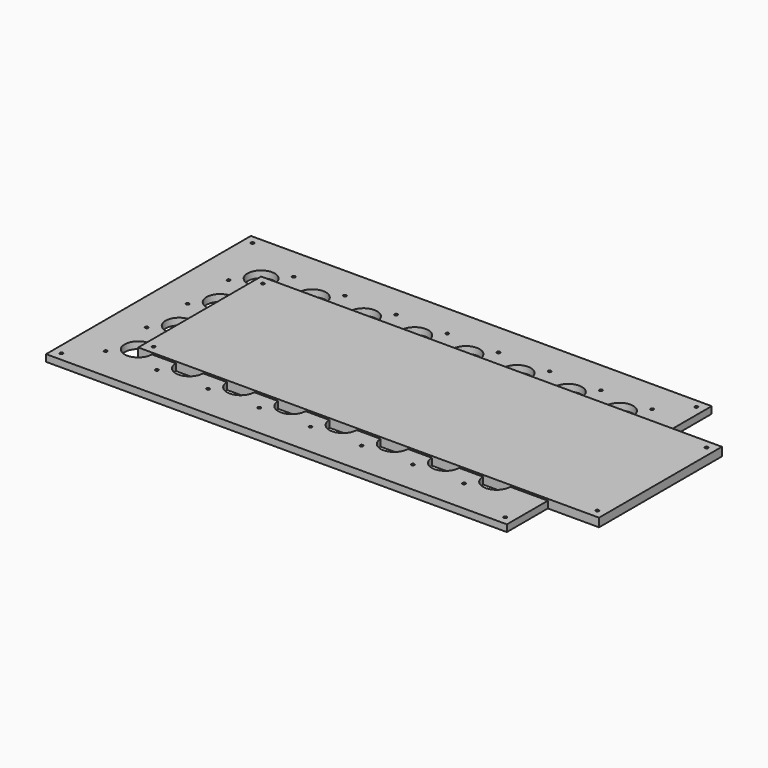
from build123d import *

# Parameters (mm, degrees)
BOX001_W                  = 540
BOX001_H                  = 40
BOX001_DEPTH              = 8
BOX003_W                  = 300
BOX003_H                  = 40
BOX003_DEPTH              = 8
CYLINDER004_R             = 1.8
CYLINDER004_DEPTH         = 10
ARRAY002_X_COUNT          = 2
ARRAY002_X_PITCH          = 280
ARRAY002_Y_COUNT          = 2
ARRAY002_Y_PITCH          = 160
CYLINDER003_R             = 1.8
CYLINDER003_DEPTH         = 10
ARRAY001_X_COUNT          = 3
ARRAY001_X_PITCH          = 55
ARRAY001_Y_COUNT          = 2
ARRAY001_Y_PITCH          = 60
BOX006_W                  = 100
BOX006_H                  = 50
BOX006_DEPTH              = 8
BOX005_W                  = 300
BOX005_H                  = 180
BOX005_DEPTH              = 8
CYLINDER005_R             = 1.8
CYLINDER005_DEPTH         = 10
ARRAY003_X_COUNT          = 2
ARRAY003_X_PITCH          = 280
ARRAY003_Y_COUNT          = 2
ARRAY003_Y_PITCH          = 160
BOX004_W                  = 300
BOX004_H                  = 180
BOX004_DEPTH              = 8
CYLINDER008_R             = 1.8
CYLINDER008_DEPTH         = 10
ARRAY006_X_COUNT          = 2
ARRAY006_X_PITCH          = 520
ARRAY006_Y_COUNT          = 2
ARRAY006_Y_PITCH          = 280
CYLINDER_R                = 16
CYLINDER_DEPTH            = 10
CYLINDER002_R             = 1.8
CYLINDER002_DEPTH         = 10
CYLINDER001_R             = 1.8
CYLINDER001_DEPTH         = 10
FUSION001_PLACEMENT_ANGLE = 45
ARRAY_X_COUNT             = 8
ARRAY_X_PITCH             = 60
ARRAY_Y_COUNT             = 4
ARRAY_Y_PITCH             = 60
BOX_W                     = 540
BOX_H                     = 300
BOX_DEPTH                 = 8
CYLINDER009_R             = 1.8
CYLINDER009_DEPTH         = 10
ARRAY007_X_COUNT          = 2
ARRAY007_X_PITCH          = 520
ARRAY007_Y_COUNT          = 2
ARRAY007_Y_PITCH          = 160
BOX007_W                  = 540
BOX007_H                  = 180
BOX007_DEPTH              = 10
BOX010_W                  = 92
BOX010_H                  = 39
BOX010_DEPTH              = 21
CYLINDER011_R             = 1.8
CYLINDER011_DEPTH         = 10
ARRAY008_X_COUNT          = 3
ARRAY008_X_PITCH          = 55
ARRAY008_Y_COUNT          = 2
ARRAY008_Y_PITCH          = 60
CYLINDER010_R             = 6
CYLINDER010_DEPTH         = 18
BOX009_W                  = 10
BOX009_H                  = 12
BOX009_DEPTH              = 18
BOX008_W                  = 12.5
BOX008_H                  = 11.5
BOX008_DEPTH              = 18
FACE001_W                 = 47.347988
FACE001_H                 = 97.690874
EXTRUDE001_DEPTH          = 8
FACE_W                    = 68.239742
FACE_H                    = 120.29238
EXTRUDE002_DEPTH          = 3


with BuildPart() as obj1:
    # Box001 → Box001 (new body)
    with BuildSketch(Plane.XY):
        with Locations((270, 20)):
            Rectangle(BOX001_W, BOX001_H)
    extrude(amount=BOX001_DEPTH)


with BuildPart() as obj2:
    # Box003 → Box003 (new body)
    with BuildSketch(Plane.XY):
        with Locations((150, 20)):
            Rectangle(BOX003_W, BOX003_H)
    extrude(amount=BOX003_DEPTH)


with BuildPart() as array002:
    # Cylinder004 → Cylinder004 (new body)
    with BuildSketch(Plane(origin=(10, 10, 0), x_dir=(1, 0, 0), z_dir=(0, 0, 1))):
        Circle(CYLINDER004_R)
    extrude(amount=CYLINDER004_DEPTH)

    # Array002 X: Array002 ×2


with BuildPart() as array002_1:
    add(array002.part)
    with Locations(*[(i * ARRAY002_X_PITCH, 0, 0) for i in range(1, ARRAY002_X_COUNT)]):
        add(array002.part)

    # Array002 Y: Array002 ×2


with BuildPart() as array002_2:
    add(array002_1.part)
    with Locations(*[(0, i * ARRAY002_Y_PITCH, 0) for i in range(1, ARRAY002_Y_COUNT)]):
        add(array002_1.part)


with BuildPart() as tornillos001:
    # Cylinder003 → Cylinder003 (new body)
    with BuildSketch(Plane(origin=(25, 12, 0), x_dir=(1, 0, 0), z_dir=(0, 0, 1))):
        Circle(CYLINDER003_R)
    extrude(amount=CYLINDER003_DEPTH)

    # Array001 X: tornillos001 ×3


with BuildPart() as tornillos001_1:
    add(tornillos001.part)
    with Locations(*[(i * ARRAY001_X_PITCH, 0, 0) for i in range(1, ARRAY001_X_COUNT)]):
        add(tornillos001.part)

    # Array001 Y: tornillos001 ×2


with BuildPart() as tornillos001_2:
    add(tornillos001_1.part)
    with Locations(*[(0, i * ARRAY001_Y_PITCH, 0) for i in range(1, ARRAY001_Y_COUNT)]):
        add(tornillos001_1.part)


with BuildPart() as agujero_jacks:
    # Box006 → Box006 (new body)
    with BuildSketch(Plane(origin=(30, 17, 0), x_dir=(1, 0, 0), z_dir=(0, 0, 1))):
        with Locations((50, 25)):
            Rectangle(BOX006_W, BOX006_H)
    extrude(amount=BOX006_DEPTH)


with BuildPart() as obj3:
    # Box005 → Box005 (new body)
    with BuildSketch(Plane.XY):
        with Locations((150, 90)):
            Rectangle(BOX005_W, BOX005_H)
    extrude(amount=BOX005_DEPTH)

    # Cut001: cut agujero-jacks
    add(agujero_jacks.part, mode=Mode.SUBTRACT)

    # Cut002: cut tornillos001
    add(tornillos001_2.part, mode=Mode.SUBTRACT)

    # Cut003: cut Array002
    add(array002_2.part, mode=Mode.SUBTRACT)


with BuildPart() as array003:
    # Cylinder005 → Cylinder005 (new body)
    with BuildSketch(Plane(origin=(10, 10, 0), x_dir=(1, 0, 0), z_dir=(0, 0, 1))):
        Circle(CYLINDER005_R)
    extrude(amount=CYLINDER005_DEPTH)

    # Array003 X: Array003 ×2


with BuildPart() as array003_1:
    add(array003.part)
    with Locations(*[(i * ARRAY003_X_PITCH, 0, 0) for i in range(1, ARRAY003_X_COUNT)]):
        add(array003.part)

    # Array003 Y: Array003 ×2


with BuildPart() as array003_2:
    add(array003_1.part)
    with Locations(*[(0, i * ARRAY003_Y_PITCH, 0) for i in range(1, ARRAY003_Y_COUNT)]):
        add(array003_1.part)


with BuildPart() as obj4:
    # Box004 → Box004 (new body)
    with BuildSketch(Plane.XY):
        with Locations((150, 90)):
            Rectangle(BOX004_W, BOX004_H)
    extrude(amount=BOX004_DEPTH)

    # Cut004: cut Array003
    add(array003_2.part, mode=Mode.SUBTRACT)


with BuildPart() as array006:
    # Cylinder008 → Cylinder008 (new body)
    with BuildSketch(Plane(origin=(-50, -50, 0), x_dir=(1, 0, 0), z_dir=(0, 0, 1))):
        Circle(CYLINDER008_R)
    extrude(amount=CYLINDER008_DEPTH)

    # Array006 X: Array006 ×2


with BuildPart() as array006_1:
    add(array006.part)
    with Locations(*[(i * ARRAY006_X_PITCH, 0, 0) for i in range(1, ARRAY006_X_COUNT)]):
        add(array006.part)

    # Array006 Y: Array006 ×2


with BuildPart() as array006_2:
    add(array006_1.part)
    with Locations(*[(0, i * ARRAY006_Y_PITCH, 0) for i in range(1, ARRAY006_Y_COUNT)]):
        add(array006_1.part)


with BuildPart() as cylinder:
    # Cylinder → Cylinder (new body)
    with BuildSketch(Plane.XY):
        Circle(CYLINDER_R)
    extrude(amount=CYLINDER_DEPTH)


with BuildPart() as cylinder002:
    # Cylinder002 → Cylinder002 (new body)
    with BuildSketch(Plane(origin=(30, 0, 0), x_dir=(1, 0, 0), z_dir=(0, 0, 1))):
        Circle(CYLINDER002_R)
    extrude(amount=CYLINDER002_DEPTH)


with BuildPart() as array:
    # Cylinder001 → Cylinder001 (new body)
    with BuildSketch(Plane(origin=(-30, 0, 0), x_dir=(1, 0, 0), z_dir=(0, 0, 1))):
        Circle(CYLINDER001_R)
    extrude(amount=CYLINDER001_DEPTH)

    # Fusion: union Cylinder002
    add(cylinder002.part)

    # Fusion001: union Cylinder
    add(cylinder.part)


with BuildPart() as array_1:
    # Fusion001 placement: moved
    add(array.part.rotate(Axis((0, 0, 0), (0, 0, 1)), FUSION001_PLACEMENT_ANGLE))

    # Array X: Array ×8


with BuildPart() as array_2:
    add(array_1.part)
    with Locations(*[(i * ARRAY_X_PITCH, 0, 0) for i in range(1, ARRAY_X_COUNT)]):
        add(array_1.part)

    # Array Y: Array ×4


with BuildPart() as array_3:
    add(array_2.part)
    with Locations(*[(0, i * ARRAY_Y_PITCH, 0) for i in range(1, ARRAY_Y_COUNT)]):
        add(array_2.part)


with BuildPart() as base:
    # Box → Box (new body)
    with BuildSketch(Plane(origin=(-60, -60, 0), x_dir=(1, 0, 0), z_dir=(0, 0, 1))):
        with Locations((270, 150)):
            Rectangle(BOX_W, BOX_H)
    extrude(amount=BOX_DEPTH)

    # Cut: cut Array
    add(array_3.part, mode=Mode.SUBTRACT)

    # Cut007: cut Array006
    add(array006_2.part, mode=Mode.SUBTRACT)


with BuildPart() as array007:
    # Cylinder009 → Cylinder009 (new body)
    with BuildSketch(Plane(origin=(10, 10, 0), x_dir=(1, 0, 0), z_dir=(0, 0, 1))):
        Circle(CYLINDER009_R)
    extrude(amount=CYLINDER009_DEPTH)

    # Array007 X: Array007 ×2


with BuildPart() as array007_1:
    add(array007.part)
    with Locations(*[(i * ARRAY007_X_PITCH, 0, 0) for i in range(1, ARRAY007_X_COUNT)]):
        add(array007.part)

    # Array007 Y: Array007 ×2


with BuildPart() as array007_2:
    add(array007_1.part)
    with Locations(*[(0, i * ARRAY007_Y_PITCH, 0) for i in range(1, ARRAY007_Y_COUNT)]):
        add(array007_1.part)


with BuildPart() as obj5:
    # Box007 → Box007 (new body)
    with BuildSketch(Plane.XY):
        with Locations((270, 90)):
            Rectangle(BOX007_W, BOX007_H)
    extrude(amount=BOX007_DEPTH)

    # Cut008: cut Array007
    add(array007_2.part, mode=Mode.SUBTRACT)


with BuildPart() as obj6:
    # Box010 → Box010 (new body)
    with BuildSketch(Plane(origin=(34, 22, -16), x_dir=(1, 0, 0), z_dir=(0, 0, 1))):
        with Locations((46, 19.5)):
            Rectangle(BOX010_W, BOX010_H)
    extrude(amount=BOX010_DEPTH)


with BuildPart() as tornillos002:
    # Cylinder011 → Cylinder011 (new body)
    with BuildSketch(Plane(origin=(25, 12, 0), x_dir=(1, 0, 0), z_dir=(0, 0, 1))):
        Circle(CYLINDER011_R)
    extrude(amount=CYLINDER011_DEPTH)

    # Array008 X: tornillos002 ×3


with BuildPart() as tornillos002_1:
    add(tornillos002.part)
    with Locations(*[(i * ARRAY008_X_PITCH, 0, 0) for i in range(1, ARRAY008_X_COUNT)]):
        add(tornillos002.part)

    # Array008 Y: tornillos002 ×2


with BuildPart() as tornillos002_2:
    add(tornillos002_1.part)
    with Locations(*[(0, i * ARRAY008_Y_PITCH, 0) for i in range(1, ARRAY008_Y_COUNT)]):
        add(tornillos002_1.part)


with BuildPart() as tornillos002_3:
    # Array008 placement: moved
    add(tornillos002_2.part.moved(Location((0, 0, -3))))


with BuildPart() as cylinder010:
    # Cylinder010 → Cylinder010 (new body)
    with BuildSketch(Plane(origin=(114, 41.5, -6), x_dir=(1, 0, 0), z_dir=(0, 0, 1))):
        Circle(CYLINDER010_R)
    extrude(amount=CYLINDER010_DEPTH)


with BuildPart() as jack:
    # Box009 → Box009 (new body)
    with BuildSketch(Plane(origin=(37.75, 0, 0), x_dir=(1, 0, 0), z_dir=(0, 0, 1))):
        with Locations((5, 6)):
            Rectangle(BOX009_W, BOX009_H)
    extrude(amount=BOX009_DEPTH)


with BuildPart() as obj7:
    # Box008 → Box008 (new body)
    with BuildSketch(Plane.XY):
        with Locations((6.25, 5.75)):
            Rectangle(BOX008_W, BOX008_H)
    extrude(amount=BOX008_DEPTH)

    # Fusion003: union JACK
    add(jack.part)


with BuildPart() as obj7_1:
    # Fusion003 placement: moved
    add(obj7.part.moved(Location((45, 36, -6))))

    # Fusion004: union Cylinder010
    add(cylinder010.part)


with BuildPart() as obj8:
    # Face001 → Extrude001 (new body)
    with BuildSketch(Plane(origin=(80.012763, 42.130045, 0), x_dir=(0, -1, 0), z_dir=(0, 0, -1))):
        Rectangle(FACE001_W, FACE001_H)
    extrude(amount=-EXTRUDE001_DEPTH)


with BuildPart() as obj9:
    # Face → Extrude002 (new body)
    with BuildSketch(Plane(origin=(80.046163, 42.320162, 0), x_dir=(0, -1, 0), z_dir=(0, 0, -1))):
        Rectangle(FACE_W, FACE_H)
    extrude(amount=EXTRUDE002_DEPTH)

    # Fusion002: union obj8
    add(obj8.part)

    # Cut009: cut obj7
    add(obj7_1.part, mode=Mode.SUBTRACT)

    # Cut010: cut tornillos002
    add(tornillos002_3.part, mode=Mode.SUBTRACT)

    # Cut011: cut obj6
    add(obj6.part, mode=Mode.SUBTRACT)


solid = Compound([obj1.part, obj2.part, obj3.part, obj4.part, base.part, obj5.part, obj9.part])
